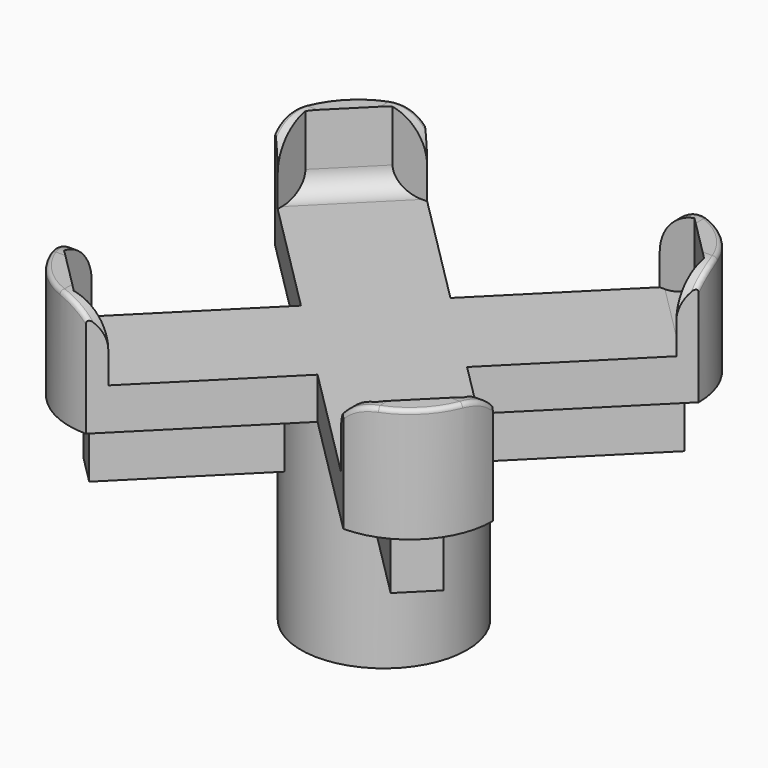
from build123d import *

# Parameters (mm, degrees)
SKETCH_W        = 20.4
SKETCH_H        = 20.4
PAD_DEPTH       = 2
PAD001_DEPTH    = 3.5
FILLET_R        = 2
FILLET001_R     = 4
FILLET002_R     = 1
FILLET003_R     = 1
FILLET004_R     = 0.2
POCKET_DEPTH    = 5.501
PAD002_DEPTH    = 3
SKETCH004_R     = 4
PAD003_DEPTH    = 10
POCKET001_DEPTH = 8


with BuildPart() as part:
    # Sketch → Pad (new body)
    with BuildSketch(Plane.XY):
        Rectangle(SKETCH_W, SKETCH_H)
    extrude(amount=PAD_DEPTH)

    # Sketch001 → Pad001 (new body)
    with BuildSketch(Plane.XY.offset(2)):
        Polygon((-10.2, 10.2), (-5.6, 10.2), (-5.6, 9.6), (-7.266548, 9.6), (-9.6, 7.266548), (-9.6, 5.6), (-10.2, 5.6), align=None)
        Polygon((5.6, 10.2), (5.6, 9.6), (7.266548, 9.6), (9.6, 7.266548), (9.6, 5.6), (10.2, 5.6), (10.2, 10.2), align=None)
        Polygon((-10.2, -5.6), (-10.2, -10.2), (-5.6, -10.2), (-5.6, -9.6), (-7.266548, -9.6), (-9.6, -7.266548), (-9.6, -5.6), align=None)
        Polygon((5.6, -9.6), (5.6, -10.2), (10.2, -10.2), (10.2, -5.6), (9.6, -5.6), (9.6, -7.266548), (7.266548, -9.6), align=None)
    extrude(amount=PAD001_DEPTH)

    # Fillet
    fillet_edges = [part.edges().sort_by_distance(p)[0] for p in [
        (-5.6, 9.9, 5.5),
        (-9.9, 5.6, 5.5),
        (5.6, 9.9, 5.5),
        (9.9, 5.6, 5.5),
        (9.9, -5.6, 5.5),
        (5.6, -9.9, 5.5),
        (-5.6, -9.9, 5.5),
        (-9.9, -5.6, 5.5),
    ]]
    fillet(fillet_edges, radius=FILLET_R)

    # Fillet001
    fillet001_edges = [part.edges().sort_by_distance(p)[0] for p in [
        (-10.2, -10.2, 3.75),
        (-10.2, 10.2, 3.75),
        (10.2, 10.2, 3.75),
        (10.2, -10.2, 3.75),
        (10.2, -10.2, 1),
        (10.2, 10.2, 1),
        (-10.2, 10.2, 1),
        (-10.2, -10.2, 1),
    ]]
    fillet(fillet001_edges, radius=FILLET001_R)

    # Fillet002
    fillet002_edges = [part.edges().sort_by_distance(p)[0] for p in [
        (-9.9, 5.6, 2),
        (5.6, 9.9, 2),
        (9.9, 5.6, 2),
        (5.6, -9.9, 2),
        (9.9, -5.6, 2),
        (-5.6, 9.9, 2),
        (-9.9, -5.6, 2),
        (-5.6, -9.9, 2),
    ]]
    fillet(fillet002_edges, radius=FILLET002_R)

    # Fillet003
    fillet003_edges = [part.edges().sort_by_distance(p)[0] for p in [
        (8.433274, -8.433274, 2),
        (-8.433274, -8.433274, 2),
        (8.433274, 8.433274, 2),
        (-8.433274, 8.433274, 2),
    ]]
    fillet(fillet003_edges, radius=FILLET003_R)

    # Fillet004
    fillet004_edges = [part.edges().sort_by_distance(p)[0] for p in [
        (-5.307107, -10.2, 2.292893),
        (0, -10.2, 2),
        (-5.6, -10.2, 3.25),
        (-5.756091, -10.2, 4.274597),
        (-6.855135, -10.145985, 5.356118),
        (-9.028427, -9.028427, 5.5),
        (-10.145985, -6.855135, 5.356118),
        (-10.2, -5.756091, 4.274597),
        (-10.2, -5.6, 3.25),
        (-10.2, -5.307107, 2.292893),
        (-10.2, 0, 2),
    ]]
    fillet(fillet004_edges, radius=FILLET004_R)

    # Sketch002 → Pocket (cut, through all)
    with BuildSketch(Plane(origin=(0, 0, 0), x_dir=(1, 0, 0), z_dir=(0, 0, -1))):
        Polygon((-6.2, 10.2), (0, 4), (6.2, 10.2), align=None)
        Polygon((-10.2, 6.2), (-4, 0), (-10.2, -6.2), align=None)
        Polygon((-6.2, -10.2), (0, -4), (6.2, -10.2), align=None)
        Polygon((10.2, 6.2), (4, 0), (10.2, -6.2), align=None)
    extrude(amount=-POCKET_DEPTH, mode=Mode.SUBTRACT)

    # Sketch003 → Pad002 (new body)
    with BuildSketch(Plane(origin=(0, 0, 0), x_dir=(1, 0, 0), z_dir=(0, 0, -1))):
        Polygon((-8.673805, -7.259591), (-7.259591, -8.673805), (0, -1.414214), (7.259591, -8.673805), (8.673805, -7.259591), (1.414214, 0), (8.673805, 7.259591), (7.259591, 8.673805), (0, 1.414214), (-7.259591, 8.673805), (-8.673805, 7.259591), (-1.414214, 0), align=None)
    extrude(amount=PAD002_DEPTH)

    # Sketch004 → Pad003 (new body)
    with BuildSketch(Plane(origin=(0, 0, 0), x_dir=(1, 0, 0), z_dir=(0, 0, -1))):
        Circle(SKETCH004_R)
    extrude(amount=PAD003_DEPTH)

    # Sketch005 → Pocket001 (cut)
    with BuildSketch(Plane(origin=(0, 0, -10), x_dir=(1, 0, 0), z_dir=(0, 0, -1))):
        Polygon((0.95, 2.5), (-0.95, 2.5), (-0.95, 0.95), (-2.5, 0.95), (-2.5, -0.95), (-0.95, -0.95), (-0.95, -2.5), (0.95, -2.5), (0.95, -0.95), (2.5, -0.95), (2.5, 0.95), (0.95, 0.95), align=None)
    extrude(amount=-POCKET001_DEPTH, mode=Mode.SUBTRACT)


solid = part.part
